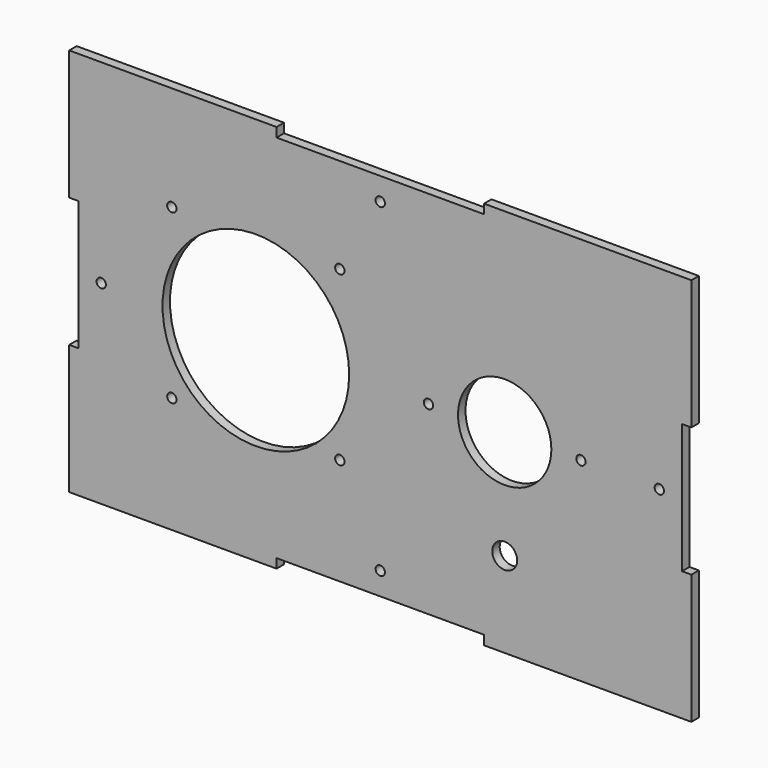
from build123d import *

# Parameters (mm, degrees)
F0_R     = 1.5
F0_R_2   = 4
F0_R_3   = 30
F0_R_4   = 15
F1_DEPTH = 3


with BuildPart() as f1:
    # F0 (on Front) → F1 (new body)
    with BuildSketch(Plane.XZ):
        Polygon((-100, -20.833333), (-100, -62.5), (-33.333333, -62.5), (-33.333333, -59.5), (33.333333, -59.5), (33.333333, -62.5), (100, -62.5), (100, -20.833333), (97, -20.833333), (97, 20.833333), (100, 20.833333), (100, 62.5), (33.333333, 62.5), (33.333333, 59.5), (-33.333333, 59.5), (-33.333333, 62.5), (-100, 62.5), (-100, 20.833333), (-97, 20.833333), (-97, -20.833333), align=None)
        with Locations((-67, -25.131546)):
            Circle(F0_R, mode=Mode.SUBTRACT)
        with Locations((-13, -25.131546)):
            Circle(F0_R, mode=Mode.SUBTRACT)
        with Locations((0, -52.2)):
            Circle(F0_R, mode=Mode.SUBTRACT)
        with Locations((40, -35)):
            Circle(F0_R_2, mode=Mode.SUBTRACT)
        with Locations((-89.7, 0)):
            Circle(F0_R, mode=Mode.SUBTRACT)
        with Locations((-67, 28.868454)):
            Circle(F0_R, mode=Mode.SUBTRACT)
        with Locations((-40, 0)):
            Circle(F0_R_3, mode=Mode.SUBTRACT)
        with Locations((-13, 28.868454)):
            Circle(F0_R, mode=Mode.SUBTRACT)
        with Locations((15.5, 0)):
            Circle(F0_R, mode=Mode.SUBTRACT)
        with Locations((40, 0)):
            Circle(F0_R_4, mode=Mode.SUBTRACT)
        with Locations((64.5, 0)):
            Circle(F0_R, mode=Mode.SUBTRACT)
        with Locations((89.7, 0)):
            Circle(F0_R, mode=Mode.SUBTRACT)
        with Locations((0, 52.2)):
            Circle(F0_R, mode=Mode.SUBTRACT)
    extrude(amount=F1_DEPTH)


with BuildPart() as f2_1:
    # F2: copy of F1
    add(f1.part.moved(Location((0, 60, 0))))


solid = f1.part
